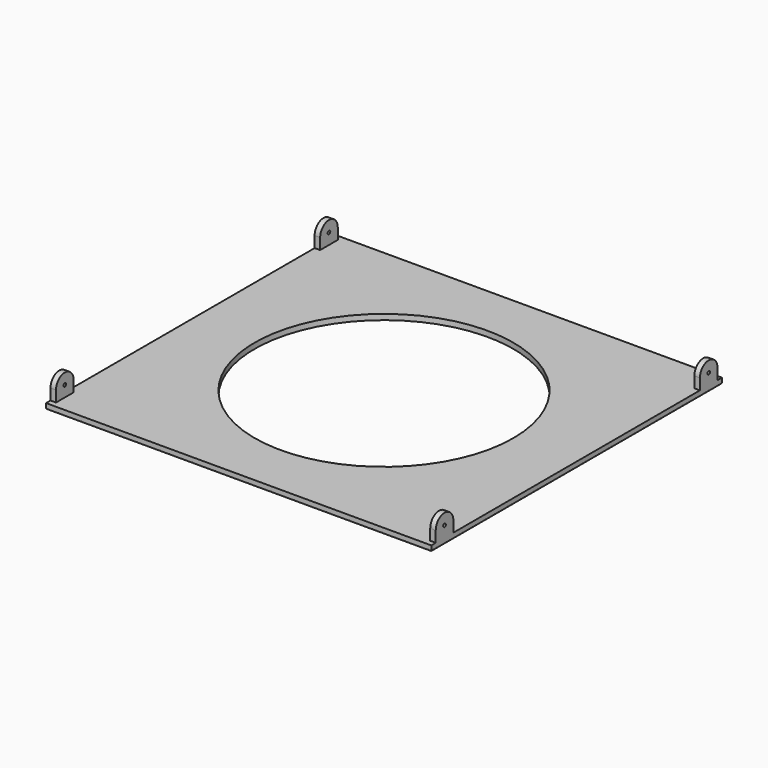
from build123d import *

# Parameters (mm, degrees)
SKETCH010_W           = 350
SKETCH010_H           = 330
PAD002_DEPTH          = 5
PAD003_DEPTH          = 5
SKETCH012_R           = 1.5
POCKET004_DEPTH       = 5
POLARPATTERN_COUNT    = 2
POLARPATTERN001_COUNT = 2
FILLET004_R           = 1
SKETCH013_R           = 117.5
POCKET005_DEPTH       = 10


with BuildPart() as part:
    # Sketch010 → Pad002 (new body)
    with BuildSketch(Plane.XY):
        Rectangle(SKETCH010_W, SKETCH010_H)
    extrude(amount=PAD002_DEPTH)

    # Sketch011 → Pad003 (join)
    with BuildSketch(Plane.YZ.offset(175)):
        with BuildLine():
            Line((-160, 0), (-160, 15))
            ThreePointArc((-140, 15), (-150, 25), (-160, 15))
            Line((-140, 15), (-140, 0))
            Line((-140, 0), (-160, 0))
        make_face()
    pad003 = extrude(amount=-PAD003_DEPTH)

    # Sketch012 → Pocket004 (cut)
    with BuildSketch(Plane.YZ.offset(175)):
        with Locations((-150, 15)):
            Circle(SKETCH012_R)
    pocket004 = extrude(amount=-POCKET004_DEPTH, mode=Mode.SUBTRACT)

    # Mirrored: Pad003 across Sketch011 V_Axis
    add(pad003.mirror(Plane(origin=(175, 0, 0), x_dir=(1, 0, 0), z_dir=(0, 1, 0))))

    # Mirrored001: Pocket004 across Sketch012 V_Axis
    add(pocket004.mirror(Plane(origin=(175, 0, 0), x_dir=(1, 0, 0), z_dir=(0, 1, 0))), mode=Mode.SUBTRACT)

    # Mirrored002: Pad003 across YZ
    add(pad003.mirror(Plane.YZ))

    # Mirrored003: Pocket004 across YZ
    add(pocket004.mirror(Plane.YZ), mode=Mode.SUBTRACT)

    # PolarPattern: Pad003 ×2 about axis
    polarpattern_axis = Axis((0, 0, 0), (0, 0, 1))
    for i in range(1, POLARPATTERN_COUNT):
        add(pad003.rotate(polarpattern_axis, i * 360 / POLARPATTERN_COUNT))

    # PolarPattern001: Pocket004 ×2 about axis
    polarpattern001_axis = Axis((0, 0, 0), (0, 0, 1))
    for i in range(1, POLARPATTERN001_COUNT):
        add(pocket004.rotate(polarpattern001_axis, i * 360 / POLARPATTERN001_COUNT), mode=Mode.SUBTRACT)

    # Fillet004
    fillet004_edges = [part.edges().sort_by_distance(p)[0] for p in [
        (0, 165, 0),
        (175, 0, 0),
        (0, -165, 0),
        (-175, 0, 0),
    ]]
    fillet(fillet004_edges, radius=FILLET004_R)

    # Sketch013 → Pocket005 (cut)
    with BuildSketch(Plane.XY):
        Circle(SKETCH013_R)
    extrude(amount=POCKET005_DEPTH, mode=Mode.SUBTRACT)


solid = part.part
